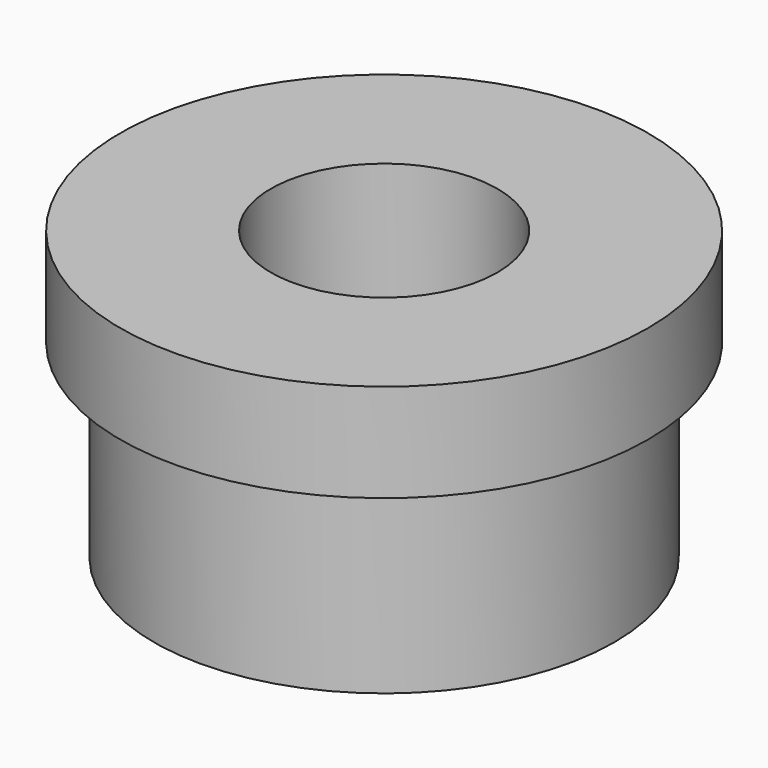
from build123d import *

# Parameters (mm, degrees)
F3_R     = 3.35
F4_DEPTH = 8.501


with BuildPart() as f1:
    # F0 (on Front) → F1 (revolve)
    with BuildSketch(Plane.XZ):
        Polygon((7.8, 0), (0, 0), (0, -8.5), (6.8, -8.5), (6.8, -2.9), (7.8, -2.9), align=None)
    revolve(axis=Axis((0, 0, -4.25), (0, 0, -1)))

    # F3 (on offset) → F4 (cut, through all)
    with BuildSketch(Plane(origin=(0, 0, -8.5), x_dir=(1, 0, 0), z_dir=(0, 0, -1))):
        Circle(F3_R)
    extrude(amount=-F4_DEPTH, mode=Mode.SUBTRACT)


solid = f1.part
